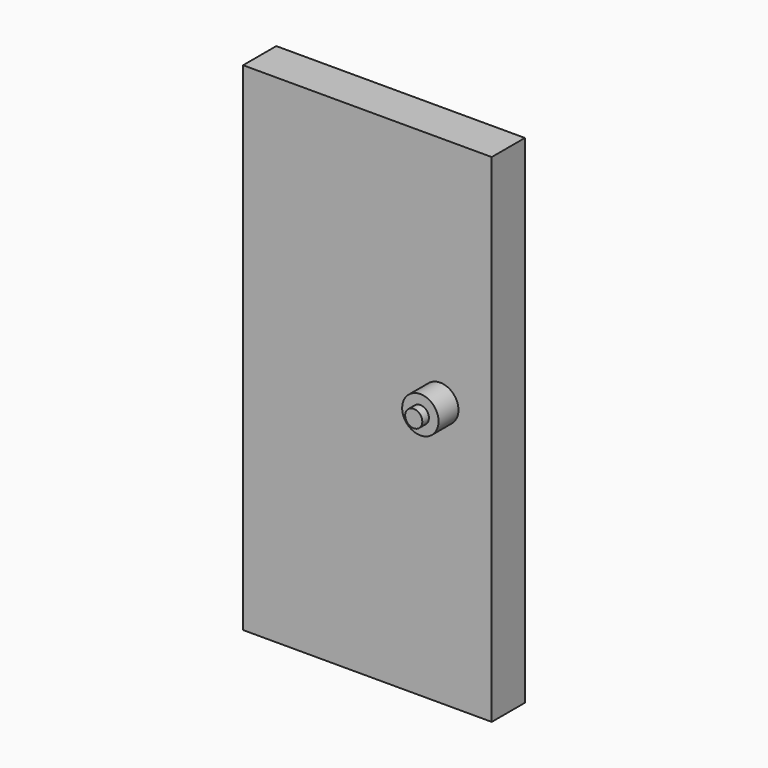
from build123d import *

# Parameters (mm, degrees)
F0_W     = 30
F0_H     = 60
F1_DEPTH = 5
F2_R     = 2.196128
F3_DEPTH = 3
F4_R     = 1.034036
F5_DEPTH = 1


with BuildPart() as f1:
    # F0 (on Front) → F1 (new body)
    with BuildSketch(Plane.XZ):
        with Locations((-16.133093, -22.920842)):
            Rectangle(F0_W, F0_H)
    extrude(amount=F1_DEPTH)

    # F2 (on face) → F3 (join)
    with BuildSketch(Plane.XZ.offset(5)):
        with Locations((-7.345827, -21.091014)):
            Circle(F2_R)
    extrude(amount=F3_DEPTH)

    # F4 (on face) → F5 (join)
    with BuildSketch(Plane.XZ.offset(8)):
        with Locations((-7.345827, -21.091014)):
            Circle(F4_R)
    extrude(amount=F5_DEPTH)


solid = f1.part
